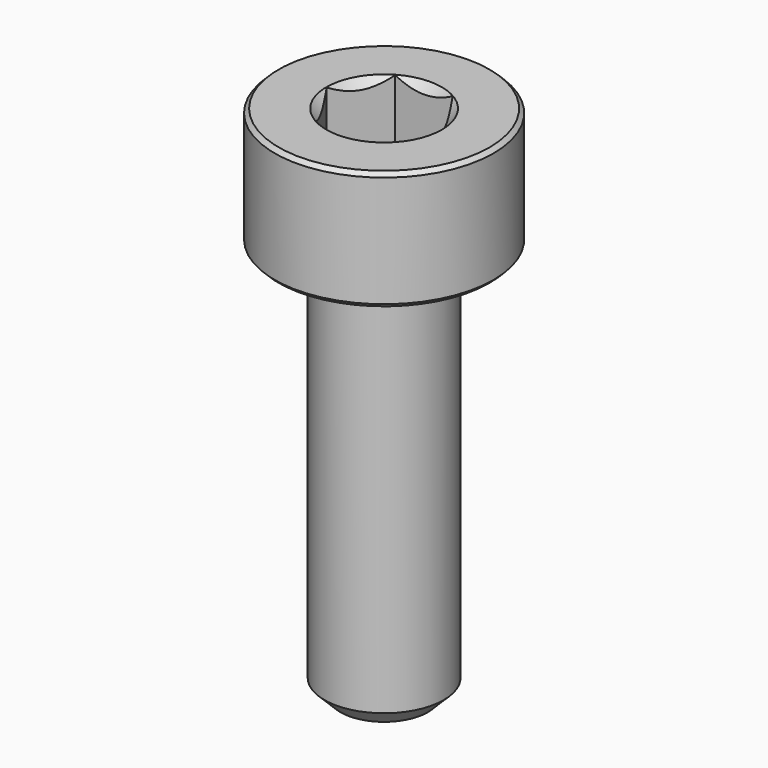
from build123d import *

# Parameters (mm, degrees)
SKETCH001_R     = 3.75
POCKET_DEPTH    = 9.70192
CHAMFER_SIZE    = 0.4
CHAMFER001_SIZE = 0.1


with BuildPart() as pocket:
    # Sketch003 → Revolution001 (revolve)
    with BuildSketch(Plane.XZ):
        Polygon((0, 0.29908), (2.75, 1.3), (2.75, 10), (0, 10), align=None)
    revolve(axis=Axis((0, 0, 0), (0, 0, 1)))

    # Sketch001 → Pocket (cut, through all)
    with BuildSketch(Plane(origin=(0, 0, 10), x_dir=(-1, 0, 0), z_dir=(0, 0, 1))):
        Circle(SKETCH001_R)
        Polygon((-0.721688, 1.25), (0.721688, 1.25), (1.443376, 0), (0.721688, -1.25), (-0.721688, -1.25), (-1.443376, 0), align=None, mode=Mode.SUBTRACT)
    extrude(amount=-POCKET_DEPTH, mode=Mode.SUBTRACT)


with BuildPart() as chamfer001:
    # Sketch → Revolution (revolve)
    with BuildSketch(Plane.XZ):
        Polygon((1.45, 3), (2.75, 3), (2.75, 0), (1.5, 0), (1.5, -10), (0, -10), (0, 1.549999), align=None)
    revolve(axis=Axis((0, 0, 0), (0, 0, 1)))

    # Cut: cut Pocket
    add(pocket.part, mode=Mode.SUBTRACT)

    # Chamfer
    chamfer_edges = [chamfer001.edges().sort_by_distance(p)[0] for p in [
        (-1.5, 0, -10),
    ]]
    chamfer(chamfer_edges, length=CHAMFER_SIZE)

    # Chamfer001
    chamfer001_edges = [chamfer001.edges().sort_by_distance(p)[0] for p in [
        (-2.75, 0, 0),
        (-2.75, 0, 3),
    ]]
    chamfer(chamfer001_edges, length=CHAMFER001_SIZE)


solid = chamfer001.part
